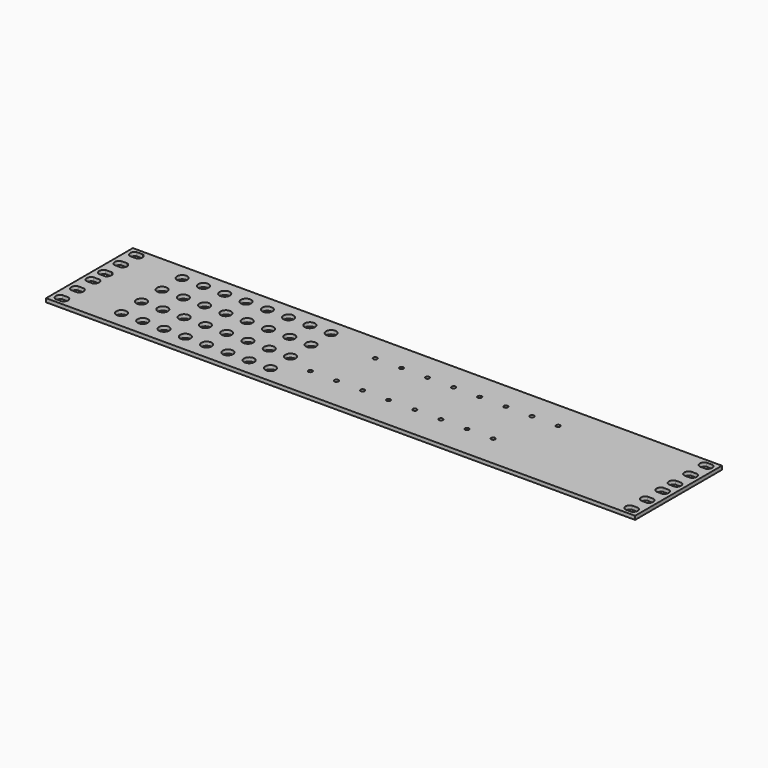
from build123d import *

# Parameters (mm, degrees)
F0_W     = 482.6
F0_H     = 88.9
F1_DEPTH = 3
F2_R     = 4.2
F2_R_2   = 1.65
F3_DEPTH = 3
F4_DEPTH = 0.5


with BuildPart() as f1:
    # F0 (on Top) → F1 (new body)
    with BuildSketch(Plane.XY):
        with Locations((174.351184, 7.895127)):
            Rectangle(F0_W, F0_H)
    extrude(amount=F1_DEPTH)

    # F2 (on face) → F3 (cut)
    with BuildSketch(Plane.XY.offset(3)):
        with BuildLine():
            Line((-56.511316, -26.720497), (-59.011316, -26.720497))
            Line((-59.011316, -26.720497), (-61.511316, -26.720497))
            ThreePointArc((-61.511316, -26.720497), (-64.011324, -30.220497), (-61.511316, -33.720497))
            Line((-61.511316, -33.720497), (-59.011316, -33.720497))
            Line((-59.011316, -33.720497), (-56.511316, -33.720497))
            ThreePointArc((-56.511316, -33.720497), (-54.011316, -30.220497), (-56.511316, -26.720497))
        make_face()
        with BuildLine():
            Line((-56.511316, 49.495127), (-59.011316, 49.495127))
            Line((-59.011316, 49.495127), (-61.511316, 49.495127))
            ThreePointArc((-61.511316, 49.495127), (-64.011324, 45.995127), (-61.511316, 42.495127))
            Line((-61.511316, 42.495127), (-59.011316, 42.495127))
            Line((-59.011316, 42.495127), (-56.511316, 42.495127))
            ThreePointArc((-56.511316, 42.495127), (-54.011316, 45.995127), (-56.511316, 49.495127))
        make_face()
        with BuildLine():
            Line((-56.511316, 17.745127), (-59.011316, 17.745127))
            Line((-59.011316, 17.745127), (-61.511316, 17.745127))
            ThreePointArc((-61.511316, 17.745127), (-64.011324, 14.245127), (-61.511316, 10.745127))
            Line((-61.511316, 10.745127), (-59.011316, 10.745127))
            Line((-59.011316, 10.745127), (-56.511316, 10.745127))
            ThreePointArc((-56.511316, 10.745127), (-54.011316, 14.245127), (-56.511316, 17.745127))
        make_face()
        with BuildLine():
            Line((-61.511316, -17.845497), (-59.011316, -17.845497))
            Line((-59.011316, -17.845497), (-56.511316, -17.845497))
            ThreePointArc((-56.511316, -17.845497), (-54.011316, -14.345497), (-56.511316, -10.845497))
            Line((-56.511316, -10.845497), (-59.011316, -10.845497))
            Line((-59.011316, -10.845497), (-61.511316, -10.845497))
            ThreePointArc((-61.511316, -10.845497), (-64.011324, -14.345497), (-61.511316, -17.845497))
        make_face()
        with BuildLine():
            Line((-61.511316, -1.970497), (-59.011316, -1.970497))
            Line((-59.011316, -1.970497), (-56.511316, -1.970497))
            ThreePointArc((-56.511316, -1.970497), (-54.011316, 1.529503), (-56.511316, 5.029503))
            Line((-56.511316, 5.029503), (-59.011316, 5.029503))
            Line((-59.011316, 5.029503), (-61.511316, 5.029503))
            ThreePointArc((-61.511316, 5.029503), (-64.011324, 1.529503), (-61.511316, -1.970497))
        make_face()
        with BuildLine():
            Line((-59.011316, 33.620127), (-61.511316, 33.620127))
            ThreePointArc((-61.511316, 33.620127), (-64.011324, 30.120127), (-61.511316, 26.620127))
            Line((-61.511316, 26.620127), (-59.011316, 26.620127))
            Line((-59.011316, 26.620127), (-56.511316, 26.620127))
            ThreePointArc((-56.511316, 26.620127), (-54.011316, 30.120127), (-56.511316, 33.620127))
            Line((-56.511316, 33.620127), (-59.011316, 33.620127))
        make_face()
        with Locations((70.826308, 39.58371)):
            Circle(F2_R)
        with Locations((1.066308, 19.02371)):
            Circle(F2_R)
        with Locations((70.826308, -22.570562)):
            Circle(F2_R)
        with Locations((1.066308, -22.570562)):
            Circle(F2_R)
        with Locations((1.066308, 39.58371)):
            Circle(F2_R)
        with Locations((70.826308, -2.010562)):
            Circle(F2_R)
        with Locations((88.266308, -22.570562)):
            Circle(F2_R)
        with Locations((35.946308, 19.02371)):
            Circle(F2_R)
        with Locations((88.266308, 19.02371)):
            Circle(F2_R)
        with Locations((18.506308, 19.02371)):
            Circle(F2_R)
        with Locations((53.386308, 19.02371)):
            Circle(F2_R)
        with Locations((105.706308, -22.570562)):
            Circle(F2_R)
        with Locations((53.386308, 39.58371)):
            Circle(F2_R)
        with Locations((-16.373692, 39.58371)):
            Circle(F2_R)
        with Locations((88.266308, 39.58371)):
            Circle(F2_R)
        with Locations((18.506308, -22.570562)):
            Circle(F2_R)
        with Locations((53.386308, -2.010562)):
            Circle(F2_R)
        with Locations((-16.373692, -22.570562)):
            Circle(F2_R)
        with Locations((88.266308, -2.010562)):
            Circle(F2_R)
        with Locations((53.386308, -22.570562)):
            Circle(F2_R)
        with Locations((35.946308, 39.58371)):
            Circle(F2_R)
        with Locations((35.946308, -2.010562)):
            Circle(F2_R)
        with Locations((105.706308, 39.58371)):
            Circle(F2_R)
        with Locations((-16.373692, 19.02371)):
            Circle(F2_R)
        with Locations((70.826308, 19.02371)):
            Circle(F2_R)
        with Locations((18.506308, -2.010562)):
            Circle(F2_R)
        with Locations((105.706308, 19.02371)):
            Circle(F2_R)
        with Locations((18.506308, 39.58371)):
            Circle(F2_R)
        with Locations((35.946308, -22.570562)):
            Circle(F2_R)
        with Locations((149.560409, -9.795658)):
            Circle(F2_R_2)
        with Locations((192.360409, -9.795658)):
            Circle(F2_R_2)
        with Locations((299.360409, 29.904342)):
            Circle(F2_R_2)
        with Locations((128.160409, -9.795658)):
            Circle(F2_R_2)
        with Locations((235.160409, -9.795658)):
            Circle(F2_R_2)
        with Locations((256.560409, 29.904342)):
            Circle(F2_R_2)
        with Locations((277.960409, 29.904342)):
            Circle(F2_R_2)
        with Locations((213.760409, 29.904342)):
            Circle(F2_R_2)
        with Locations((105.706308, -2.010562)):
            Circle(F2_R)
        with Locations((149.560409, 29.904342)):
            Circle(F2_R_2)
        with Locations((277.960409, -9.795658)):
            Circle(F2_R_2)
        with Locations((1.066308, -2.010562)):
            Circle(F2_R)
        with Locations((170.960409, 29.904342)):
            Circle(F2_R_2)
        with Locations((213.760409, -9.795658)):
            Circle(F2_R_2)
        with Locations((256.560409, -9.795658)):
            Circle(F2_R_2)
        with Locations((192.360409, 29.904342)):
            Circle(F2_R_2)
        with Locations((170.960409, -9.795658)):
            Circle(F2_R_2)
        with Locations((235.160409, 29.904342)):
            Circle(F2_R_2)
        with Locations((-16.373692, -2.010562)):
            Circle(F2_R)
        with BuildLine():
            ThreePointArc((410.213684, 26.620127), (412.713692, 30.120127), (410.213684, 33.620127))
            Line((410.213684, 33.620127), (407.713684, 33.620127))
            Line((407.713684, 33.620127), (405.213684, 33.620127))
            ThreePointArc((405.213684, 33.620127), (402.713684, 30.120127), (405.213684, 26.620127))
            Line((405.213684, 26.620127), (407.713684, 26.620127))
            Line((407.713684, 26.620127), (410.213684, 26.620127))
        make_face()
        with BuildLine():
            Line((410.213684, -10.845497), (407.713684, -10.845497))
            Line((407.713684, -10.845497), (405.213684, -10.845497))
            ThreePointArc((405.213684, -10.845497), (402.713684, -14.345497), (405.213684, -17.845497))
            Line((405.213684, -17.845497), (407.713684, -17.845497))
            Line((407.713684, -17.845497), (410.213684, -17.845497))
            ThreePointArc((410.213684, -17.845497), (412.713692, -14.345497), (410.213684, -10.845497))
        make_face()
        with BuildLine():
            Line((410.213684, 5.029503), (407.713684, 5.029503))
            Line((407.713684, 5.029503), (405.213684, 5.029503))
            ThreePointArc((405.213684, 5.029503), (402.713684, 1.529503), (405.213684, -1.970497))
            Line((405.213684, -1.970497), (407.713684, -1.970497))
            Line((407.713684, -1.970497), (410.213684, -1.970497))
            ThreePointArc((410.213684, -1.970497), (412.713692, 1.529503), (410.213684, 5.029503))
        make_face()
        with BuildLine():
            Line((405.213684, 10.745127), (407.713684, 10.745127))
            Line((407.713684, 10.745127), (410.213684, 10.745127))
            ThreePointArc((410.213684, 10.745127), (412.713692, 14.245127), (410.213684, 17.745127))
            Line((410.213684, 17.745127), (407.713684, 17.745127))
            Line((407.713684, 17.745127), (405.213684, 17.745127))
            ThreePointArc((405.213684, 17.745127), (402.713684, 14.245127), (405.213684, 10.745127))
        make_face()
        with BuildLine():
            Line((410.213684, -26.720497), (407.713684, -26.720497))
            Line((407.713684, -26.720497), (405.213684, -26.720497))
            ThreePointArc((405.213684, -26.720497), (402.713684, -30.220497), (405.213684, -33.720497))
            Line((405.213684, -33.720497), (407.713684, -33.720497))
            Line((407.713684, -33.720497), (410.213684, -33.720497))
            ThreePointArc((410.213684, -33.720497), (412.713692, -30.220497), (410.213684, -26.720497))
        make_face()
        with BuildLine():
            Line((405.213684, 42.495127), (407.713684, 42.495127))
            Line((407.713684, 42.495127), (410.213684, 42.495127))
            ThreePointArc((410.213684, 42.495127), (412.713692, 45.995127), (410.213684, 49.495127))
            Line((410.213684, 49.495127), (407.713684, 49.495127))
            Line((407.713684, 49.495127), (405.213684, 49.495127))
            ThreePointArc((405.213684, 49.495127), (402.713684, 45.995127), (405.213684, 42.495127))
        make_face()
    extrude(amount=-F3_DEPTH, mode=Mode.SUBTRACT)

    # F2 (on face) → F4 (cut)
    with BuildSketch(Plane.XY.offset(3)):
        with BuildLine():
            Line((-61.511316, -1.970497), (-59.011316, -1.970497))
            Line((-59.011316, -1.970497), (-56.511316, -1.970497))
            ThreePointArc((-56.511316, -1.970497), (-54.011316, 1.529503), (-56.511316, 5.029503))
            Line((-56.511316, 5.029503), (-59.011316, 5.029503))
            Line((-59.011316, 5.029503), (-61.511316, 5.029503))
            ThreePointArc((-61.511316, 5.029503), (-64.011324, 1.529503), (-61.511316, -1.970497))
        make_face()
        with BuildLine():
            Line((-61.511316, -17.845497), (-59.011316, -17.845497))
            Line((-59.011316, -17.845497), (-56.511316, -17.845497))
            ThreePointArc((-56.511316, -17.845497), (-54.011316, -14.345497), (-56.511316, -10.845497))
            Line((-56.511316, -10.845497), (-59.011316, -10.845497))
            Line((-59.011316, -10.845497), (-61.511316, -10.845497))
            ThreePointArc((-61.511316, -10.845497), (-64.011324, -14.345497), (-61.511316, -17.845497))
        make_face()
        with BuildLine():
            Line((-56.511316, 49.495127), (-59.011316, 49.495127))
            Line((-59.011316, 49.495127), (-61.511316, 49.495127))
            ThreePointArc((-61.511316, 49.495127), (-64.011324, 45.995127), (-61.511316, 42.495127))
            Line((-61.511316, 42.495127), (-59.011316, 42.495127))
            Line((-59.011316, 42.495127), (-56.511316, 42.495127))
            ThreePointArc((-56.511316, 42.495127), (-54.011316, 45.995127), (-56.511316, 49.495127))
        make_face()
        with BuildLine():
            Line((-59.011316, 33.620127), (-61.511316, 33.620127))
            ThreePointArc((-61.511316, 33.620127), (-64.011324, 30.120127), (-61.511316, 26.620127))
            Line((-61.511316, 26.620127), (-59.011316, 26.620127))
            Line((-59.011316, 26.620127), (-56.511316, 26.620127))
            ThreePointArc((-56.511316, 26.620127), (-54.011316, 30.120127), (-56.511316, 33.620127))
            Line((-56.511316, 33.620127), (-59.011316, 33.620127))
        make_face()
        with BuildLine():
            Line((-56.511316, 17.745127), (-59.011316, 17.745127))
            Line((-59.011316, 17.745127), (-61.511316, 17.745127))
            ThreePointArc((-61.511316, 17.745127), (-64.011324, 14.245127), (-61.511316, 10.745127))
            Line((-61.511316, 10.745127), (-59.011316, 10.745127))
            Line((-59.011316, 10.745127), (-56.511316, 10.745127))
            ThreePointArc((-56.511316, 10.745127), (-54.011316, 14.245127), (-56.511316, 17.745127))
        make_face()
        with BuildLine():
            Line((-56.511316, -26.720497), (-59.011316, -26.720497))
            Line((-59.011316, -26.720497), (-61.511316, -26.720497))
            ThreePointArc((-61.511316, -26.720497), (-64.011324, -30.220497), (-61.511316, -33.720497))
            Line((-61.511316, -33.720497), (-59.011316, -33.720497))
            Line((-59.011316, -33.720497), (-56.511316, -33.720497))
            ThreePointArc((-56.511316, -33.720497), (-54.011316, -30.220497), (-56.511316, -26.720497))
        make_face()
        with Locations((170.960409, 29.904342)):
            Circle(F2_R_2)
        with Locations((192.360409, -9.795658)):
            Circle(F2_R_2)
        with Locations((256.560409, -9.795658)):
            Circle(F2_R_2)
        with Locations((170.960409, -9.795658)):
            Circle(F2_R_2)
        with Locations((299.360409, 29.904342)):
            Circle(F2_R_2)
        with Locations((149.560409, -9.795658)):
            Circle(F2_R_2)
        with Locations((128.160409, -9.795658)):
            Circle(F2_R_2)
        with Locations((277.960409, 29.904342)):
            Circle(F2_R_2)
        with Locations((192.360409, 29.904342)):
            Circle(F2_R_2)
        with Locations((213.760409, 29.904342)):
            Circle(F2_R_2)
        with Locations((213.760409, -9.795658)):
            Circle(F2_R_2)
        with Locations((235.160409, -9.795658)):
            Circle(F2_R_2)
        with Locations((235.160409, 29.904342)):
            Circle(F2_R_2)
        with Locations((149.560409, 29.904342)):
            Circle(F2_R_2)
        with Locations((256.560409, 29.904342)):
            Circle(F2_R_2)
        with Locations((277.960409, -9.795658)):
            Circle(F2_R_2)
        with Locations((35.946308, 19.02371)):
            Circle(F2_R)
        with Locations((53.386308, 39.58371)):
            Circle(F2_R)
        with Locations((-16.373692, -2.010562)):
            Circle(F2_R)
        with Locations((-16.373692, 39.58371)):
            Circle(F2_R)
        with Locations((-16.373692, -22.570562)):
            Circle(F2_R)
        with Locations((1.066308, -22.570562)):
            Circle(F2_R)
        with Locations((88.266308, 19.02371)):
            Circle(F2_R)
        with Locations((35.946308, 39.58371)):
            Circle(F2_R)
        with Locations((1.066308, 19.02371)):
            Circle(F2_R)
        with Locations((35.946308, -22.570562)):
            Circle(F2_R)
        with Locations((70.826308, 39.58371)):
            Circle(F2_R)
        with Locations((-16.373692, 19.02371)):
            Circle(F2_R)
        with Locations((70.826308, 19.02371)):
            Circle(F2_R)
        with Locations((105.706308, 19.02371)):
            Circle(F2_R)
        with Locations((88.266308, 39.58371)):
            Circle(F2_R)
        with Locations((105.706308, -22.570562)):
            Circle(F2_R)
        with Locations((88.266308, -22.570562)):
            Circle(F2_R)
        with Locations((53.386308, -22.570562)):
            Circle(F2_R)
        with Locations((18.506308, 19.02371)):
            Circle(F2_R)
        with Locations((70.826308, -22.570562)):
            Circle(F2_R)
        with Locations((88.266308, -2.010562)):
            Circle(F2_R)
        with Locations((105.706308, -2.010562)):
            Circle(F2_R)
        with Locations((1.066308, 39.58371)):
            Circle(F2_R)
        with Locations((53.386308, -2.010562)):
            Circle(F2_R)
        with Locations((70.826308, -2.010562)):
            Circle(F2_R)
        with Locations((18.506308, 39.58371)):
            Circle(F2_R)
        with Locations((105.706308, 39.58371)):
            Circle(F2_R)
        with Locations((35.946308, -2.010562)):
            Circle(F2_R)
        with Locations((18.506308, -2.010562)):
            Circle(F2_R)
        with Locations((1.066308, -2.010562)):
            Circle(F2_R)
        with Locations((18.506308, -22.570562)):
            Circle(F2_R)
        with Locations((53.386308, 19.02371)):
            Circle(F2_R)
        with BuildLine():
            Line((410.213684, 5.029503), (407.713684, 5.029503))
            Line((407.713684, 5.029503), (405.213684, 5.029503))
            ThreePointArc((405.213684, 5.029503), (402.713684, 1.529503), (405.213684, -1.970497))
            Line((405.213684, -1.970497), (407.713684, -1.970497))
            Line((407.713684, -1.970497), (410.213684, -1.970497))
            ThreePointArc((410.213684, -1.970497), (412.713692, 1.529503), (410.213684, 5.029503))
        make_face()
        with BuildLine():
            Line((410.213684, -10.845497), (407.713684, -10.845497))
            Line((407.713684, -10.845497), (405.213684, -10.845497))
            ThreePointArc((405.213684, -10.845497), (402.713684, -14.345497), (405.213684, -17.845497))
            Line((405.213684, -17.845497), (407.713684, -17.845497))
            Line((407.713684, -17.845497), (410.213684, -17.845497))
            ThreePointArc((410.213684, -17.845497), (412.713692, -14.345497), (410.213684, -10.845497))
        make_face()
        with BuildLine():
            Line((410.213684, -26.720497), (407.713684, -26.720497))
            Line((407.713684, -26.720497), (405.213684, -26.720497))
            ThreePointArc((405.213684, -26.720497), (402.713684, -30.220497), (405.213684, -33.720497))
            Line((405.213684, -33.720497), (407.713684, -33.720497))
            Line((407.713684, -33.720497), (410.213684, -33.720497))
            ThreePointArc((410.213684, -33.720497), (412.713692, -30.220497), (410.213684, -26.720497))
        make_face()
        with BuildLine():
            ThreePointArc((410.213684, 26.620127), (412.713692, 30.120127), (410.213684, 33.620127))
            Line((410.213684, 33.620127), (407.713684, 33.620127))
            Line((407.713684, 33.620127), (405.213684, 33.620127))
            ThreePointArc((405.213684, 33.620127), (402.713684, 30.120127), (405.213684, 26.620127))
            Line((405.213684, 26.620127), (407.713684, 26.620127))
            Line((407.713684, 26.620127), (410.213684, 26.620127))
        make_face()
        with BuildLine():
            Line((405.213684, 42.495127), (407.713684, 42.495127))
            Line((407.713684, 42.495127), (410.213684, 42.495127))
            ThreePointArc((410.213684, 42.495127), (412.713692, 45.995127), (410.213684, 49.495127))
            Line((410.213684, 49.495127), (407.713684, 49.495127))
            Line((407.713684, 49.495127), (405.213684, 49.495127))
            ThreePointArc((405.213684, 49.495127), (402.713684, 45.995127), (405.213684, 42.495127))
        make_face()
        with BuildLine():
            Line((405.213684, 10.745127), (407.713684, 10.745127))
            Line((407.713684, 10.745127), (410.213684, 10.745127))
            ThreePointArc((410.213684, 10.745127), (412.713692, 14.245127), (410.213684, 17.745127))
            Line((410.213684, 17.745127), (407.713684, 17.745127))
            Line((407.713684, 17.745127), (405.213684, 17.745127))
            ThreePointArc((405.213684, 17.745127), (402.713684, 14.245127), (405.213684, 10.745127))
        make_face()
    extrude(amount=-F4_DEPTH, mode=Mode.SUBTRACT)


solid = f1.part
